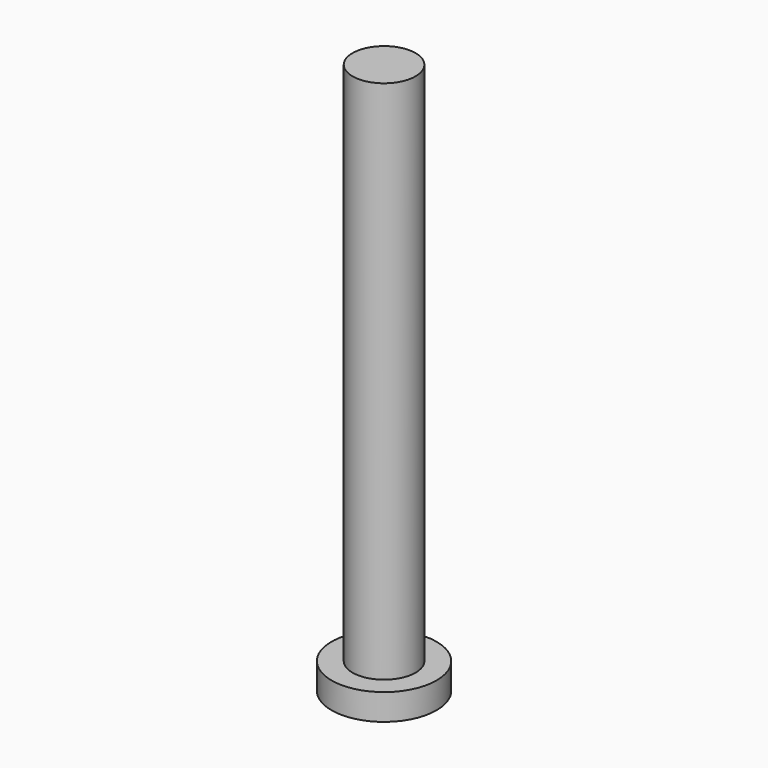
from build123d import *

# Parameters (mm, degrees)
F0_W     = 1.2
F0_H     = 20
F2_R     = 2
F3_DEPTH = 1


with BuildPart() as f1:
    # F0 (on Front) → F1 (revolve)
    with BuildSketch(Plane.XZ):
        with Locations((0.6, 10)):
            Rectangle(F0_W, F0_H)
    revolve(axis=Axis((0, 0, 10), (0, 0, 1)))

    # F2 (on Top) → F3 (join)
    with BuildSketch(Plane.XY):
        Circle(F2_R)
    extrude(amount=-F3_DEPTH)


solid = f1.part
